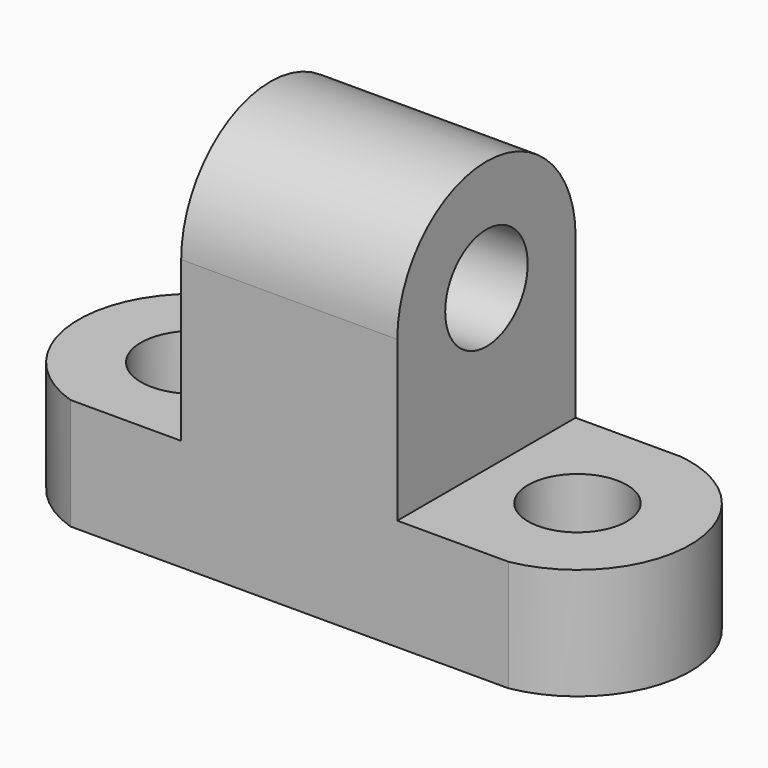
from build123d import *

# Parameters (mm, degrees)
F0_W      = 69.85
F0_H      = 44.45
F1_DEPTH  = 25.4
F3_DEPTH  = 25.4
F4_DEPTH  = 25.4
F6_DEPTH  = 31.75
F7_R      = 6.0952761175
F8_DEPTH  = 25.4
F9_R      = 5.6297266716
F10_DEPTH = 25.4
F12_DEPTH = 25.4
F13_R     = 5.87576174
F14_DEPTH = 25.4


with BuildPart() as f1:
    # F0 (on Front) → F1 (new body)
    with BuildSketch(Plane.XZ):
        with Locations((13.0522018299, -8.6590135922)):
            Rectangle(F0_W, F0_H)
    extrude(amount=F1_DEPTH)

    # F2 (on face) → F3 (cut)
    with BuildSketch(Plane.XY.offset(13.5659864078)):
        with BuildLine():
            Line((-21.8727981701, -25.4), (-12.6271519341, -25.4))
            ThreePointArc((-12.6271519341, -25.4), (-21.7253869392, -12.3045156894), (-11.5829768121, 0))
            Line((-11.5829768121, 0), (-21.8727981701, 0))
            Line((-21.8727981701, 0), (-21.8727981701, -25.4))
        make_face()
        with BuildLine():
            ThreePointArc((36.6770463917, 0), (47.8953651974, -12.4202974309), (37.3292975128, -25.4))
            Line((37.3292975128, -25.4), (47.9772018299, -25.4))
            Line((47.9772018299, -25.4), (47.9772018299, 0))
            Line((47.9772018299, 0), (36.6770463917, 0))
        make_face()
    extrude(amount=-F3_DEPTH, mode=Mode.SUBTRACT)

    # F4 (cut): faces of the model
    f4_faces = [f1.faces().sort_by_distance(p)[0] for p in [
        (-21.7527689283, -12.3033900362, -11.8340135922),
        (47.923156279, -12.4195837788, -11.8340135922),
    ]]
    extrude(f4_faces, amount=-F4_DEPTH, mode=Mode.SUBTRACT)

    # F5 (on face) → F6 (cut)
    with BuildSketch(Plane.XY.offset(13.5659864078)):
        with BuildLine():
            ThreePointArc((-12.6271519341, -0.2937349935), (-21.7365300731, -12.8468674968), (-12.6271519341, -25.4))
            Line((-12.6271519341, -25.4), (-12.6271519341, -0.2937349935))
        make_face()
        with BuildLine():
            Line((-12.6271519341, -0.2937349935), (-12.6271519341, -25.4))
            Line((-12.6271519341, -25.4), (0, -25.4))
            Line((0, -25.4), (0, 0))
            Line((0, 0), (-11.5829768121, 0))
            ThreePointArc((-11.5829768121, 0), (-12.1080819056, -0.136140711), (-12.6271519341, -0.2937349935))
        make_face()
        with BuildLine():
            Line((24.6292975128, 0), (24.6292975128, -25.4))
            Line((24.6292975128, -25.4), (37.3292975128, -25.4))
            Line((37.3292975128, -25.4), (37.3292975128, -0.1005509322))
            ThreePointArc((37.3292975128, -0.1005509322), (37.0038173622, -0.046088838), (36.6770463917, 0))
            Line((36.6770463917, 0), (24.6292975128, 0))
        make_face()
        with BuildLine():
            Line((37.3292975128, -0.1005509322), (37.3292975128, -25.4))
            ThreePointArc((37.3292975128, -25.4), (47.8996012815, -12.7502754661), (37.3292975128, -0.1005509322))
        make_face()
    extrude(amount=-F6_DEPTH, mode=Mode.SUBTRACT)

    # F7 (on face) → F8 (cut)
    with BuildSketch(Plane.XY.offset(-18.1840135922)):
        with Locations((-8.5324506041, -12.8468674968)):
            Circle(F7_R)
    extrude(amount=-F8_DEPTH, mode=Mode.SUBTRACT)

    # F9 (on face) → F10 (cut)
    with BuildSketch(Plane.XY.offset(-18.1840135922)):
        with Locations((35.0453419106, -12.7502754661)):
            Circle(F9_R)
    extrude(amount=-F10_DEPTH, mode=Mode.SUBTRACT)

    # F11 (on face) → F12 (cut)
    with BuildSketch(Plane(origin=(0, 0, 0), x_dir=(0, -1, 0), z_dir=(-1, 0, 0))):
        with BuildLine():
            Line((0, 13.5659864078), (0, 0))
            ThreePointArc((0, 0), (12.7, 12.7), (25.4, 0))
            Line((25.4, 0), (25.4, 13.5659864078))
            Line((25.4, 13.5659864078), (0, 13.5659864078))
        make_face()
    extrude(amount=-F12_DEPTH, mode=Mode.SUBTRACT)

    # F13 (on face) → F14 (cut)
    with BuildSketch(Plane(origin=(0, 0, 0), x_dir=(0, -1, 0), z_dir=(-1, 0, 0))):
        with Locations((12.7, 0)):
            Circle(F13_R)
    extrude(amount=-F14_DEPTH, mode=Mode.SUBTRACT)


solid = f1.part
